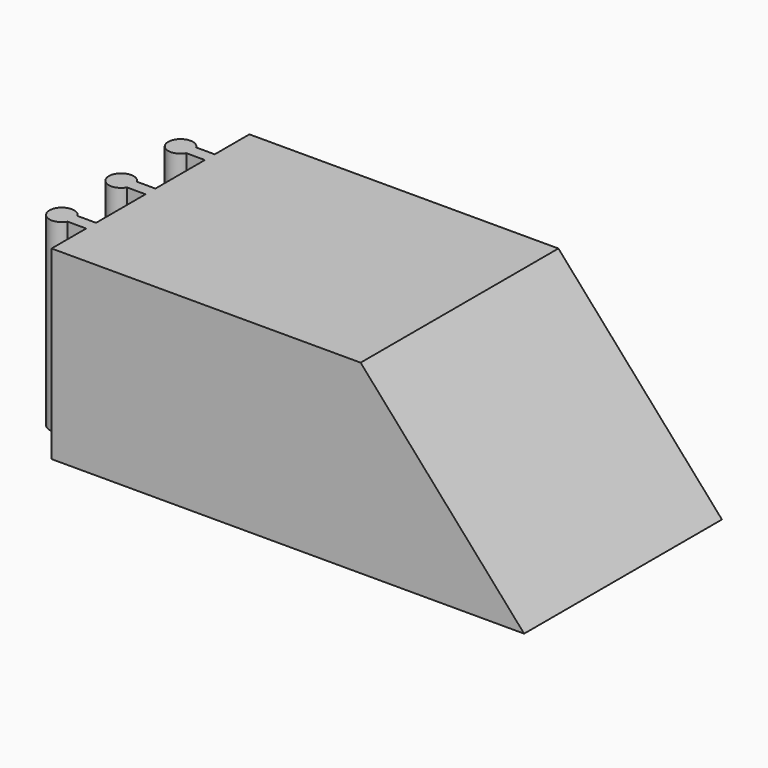
from build123d import *

# Parameters (mm, degrees)
F0_W     = 127
F0_H     = 101.6
F1_DEPTH = 76.2
F3_DEPTH = 101.6
F4_W     = 7.62
F4_H     = 5.08
F5_DEPTH = 76.2


with BuildPart() as f1:
    # F0 (on Top) → F1 (new body)
    with BuildSketch(Plane.XY):
        with Locations((22.224299, -15.116411)):
            Rectangle(F0_W, F0_H)
    extrude(amount=F1_DEPTH)

    # F2 (on face) → F3 (join)
    with BuildSketch(Plane.XZ.offset(65.916411)):
        Polygon((152.926383, 0), (85.724299, 76.2), (85.724299, 0), align=None)
    extrude(amount=-F3_DEPTH)

    # F4 (on face) → F5 (join)
    with BuildSketch(Plane(origin=(0, 0, 0), x_dir=(1, 0, 0), z_dir=(0, 0, -1))):
        with Locations((-45.085701, -15.363589)):
            Rectangle(F4_W, F4_H)
        with BuildLine():
            ThreePointArc((-48.895701, 48.136411), (-58.37511, 45.596411), (-48.895701, 43.056411))
            Line((-48.895701, 43.056411), (-48.895701, 48.136411))
        make_face()
        with Locations((-45.085701, 45.596411)):
            Rectangle(F4_W, F4_H)
        with BuildLine():
            ThreePointArc((-48.895701, 17.656411), (-58.37511, 15.116411), (-48.895701, 12.576411))
            Line((-48.895701, 12.576411), (-48.895701, 17.656411))
        make_face()
        with Locations((-45.085701, 15.116411)):
            Rectangle(F4_W, F4_H)
        with BuildLine():
            ThreePointArc((-48.895701, -12.823589), (-58.37511, -15.363589), (-48.895701, -17.903589))
            Line((-48.895701, -17.903589), (-48.895701, -12.823589))
        make_face()
    extrude(amount=-F5_DEPTH)


solid = f1.part
